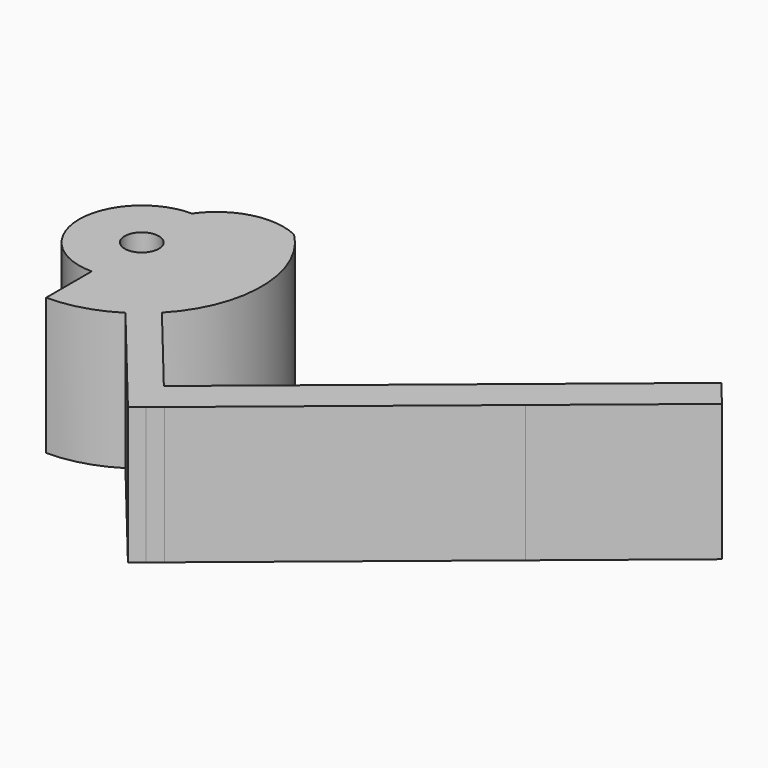
from build123d import *

# Parameters (mm, degrees)
F1_DEPTH = 15.24


with BuildPart() as f1:
    # F0 (on Top) → F1 (new body)
    with BuildSketch(Plane.XY):
        with BuildLine():
            ThreePointArc((1.8952371737, 0.1926163425), (1.9025577279, 0.0964318), (1.905, 0))
            ThreePointArc((1.905, 0), (1.7219962191, -0.8147110048), (1.2081453844, -1.472891622))
            Line((1.2081453844, -1.472891622), (8.4570176909, -10.3102413539))
            ThreePointArc((8.4570176909, -10.3102413539), (9.0567677225, -9.7876035586), (9.624285682, -9.2301327244))
            Line((9.624285682, -9.2301327244), (1.8952371737, 0.1926163425))
        make_face()
        with BuildLine():
            ThreePointArc((-0.5595821963, -1.8209592982), (-1.2081453844, 1.472891622), (1.8952371737, 0.1926163425))
            Line((1.8952371737, 0.1926163425), (9.624285682, -9.2301327244))
            ThreePointArc((9.624285682, -9.2301327244), (13.3342717577, 0.1393617253), (9.4292689271, 9.4292689271))
            ThreePointArc((9.4292689271, 9.4292689271), (4.2624981947, 9.9513428949), (0, 6.985))
            ThreePointArc((0, 6.985), (-6.985, 0), (0, -6.985))
            Line((0, -6.985), (0, -13.335))
            ThreePointArc((0, -13.335), (3.7341246599, -12.8015053031), (7.1694663121, -11.2437083651))
            Line((7.1694663121, -11.2437083651), (-0.5595821963, -1.8209592982))
        make_face()
        with BuildLine():
            Line((8.4570176909, -10.3102413539), (1.2081453844, -1.472891622))
            ThreePointArc((1.2081453844, -1.472891622), (0.3680303371, -1.8691117331), (-0.5595821963, -1.8209592982))
            Line((-0.5595821963, -1.8209592982), (7.1694663121, -11.2437083651))
            ThreePointArc((7.1694663121, -11.2437083651), (7.8271700339, -10.7961860979), (8.4570176909, -10.3102413539))
        make_face()
        with BuildLine():
            Line((18.4026428531, -19.9321300989), (9.624285682, -9.2301327244))
            ThreePointArc((9.624285682, -9.2301327244), (9.0567677225, -9.7876035586), (8.4570176909, -10.3102413539))
            Line((8.4570176909, -10.3102413539), (19.6879736416, -24.0022863179))
            Line((19.6879736416, -24.0022863179), (20.9153833266, -22.9954984975))
            Line((20.9153833266, -22.9954984975), (18.4026428531, -19.9321300989))
        make_face()
        with BuildLine():
            Line((19.6879736416, -24.0022863179), (8.4570176909, -10.3102413539))
            ThreePointArc((8.4570176909, -10.3102413539), (7.8271700339, -10.7961860979), (7.1694663121, -11.2437083651))
            Line((7.1694663121, -11.2437083651), (18.4605639566, -25.0090741382))
            Line((18.4605639566, -25.0090741382), (19.6879736416, -24.0022863179))
        make_face()
        Polygon((42.7025887118, 0), (18.4026428531, -19.9321300989), (20.9153833266, -22.9954984975), (45.2153291853, -3.0633683986), align=None)
        Polygon((55.9190808908, 10.8408818313), (42.7025887118, 0), (45.2153291853, -3.0633683986), (58.4318213643, 7.7775134327), align=None)
    extrude(amount=F1_DEPTH)


solid = f1.part
